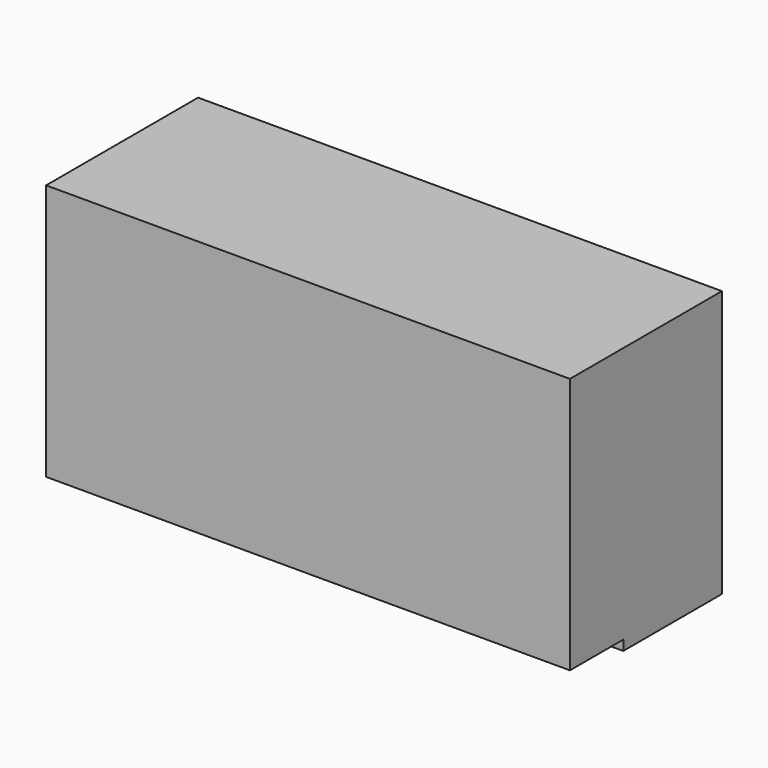
from build123d import *

# Parameters (mm, degrees)
F0_W     = 19.96
F0_H     = 9.779
F1_DEPTH = 7.239
F2_W     = 19.96
F2_H     = 0.381
F3_DEPTH = 4.699


with BuildPart() as f1:
    # F0 (on Front) → F1 (new body)
    with BuildSketch(Plane.XZ):
        Rectangle(F0_W, F0_H)
    extrude(amount=F1_DEPTH)

    # F2 (on face) → F3 (join)
    with BuildSketch(Plane(origin=(0, 0, 0), x_dir=(-1, 0, 0), z_dir=(0, 1, 0))):
        with Locations((0, -5.08)):
            Rectangle(F2_W, F2_H)
    extrude(amount=-F3_DEPTH)


solid = f1.part
